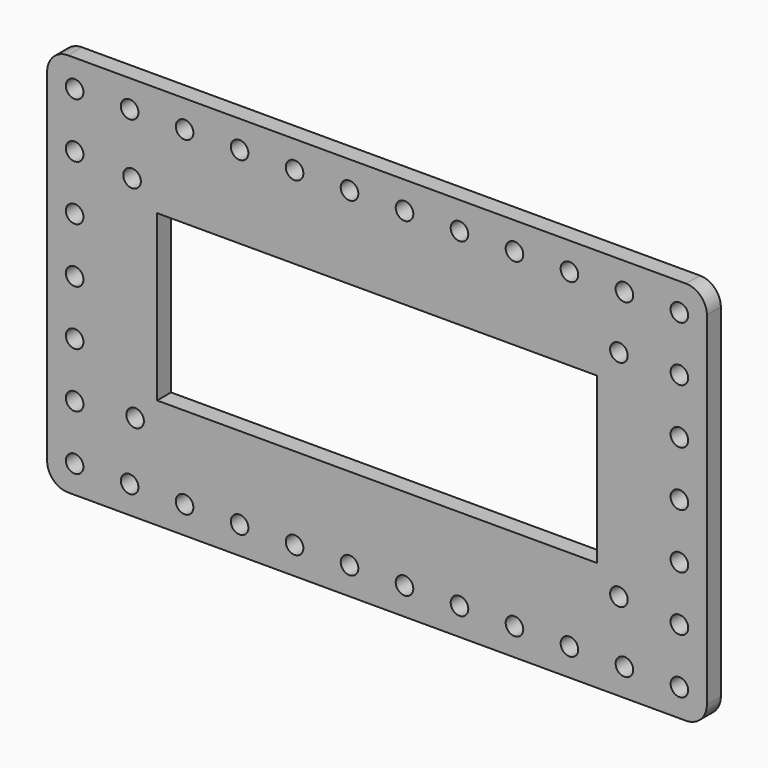
from build123d import *

# Parameters (mm, degrees)
F0_R     = 1.6
F0_W     = 80
F0_H     = 30
F1_DEPTH = 3.175


with BuildPart() as f1:
    # F0 (on Front) → F1 (new body)
    with BuildSketch(Plane.XZ):
        with BuildLine():
            Line((116.19, 0), (3.81, 0))
            ThreePointArc((3.81, 0), (1.115923, -1.115923), (0, -3.81))
            Line((0, -3.81), (0, -66.19))
            ThreePointArc((0, -66.19), (1.115923, -68.884077), (3.81, -70))
            Line((3.81, -70), (116.19, -70))
            ThreePointArc((116.19, -70), (118.884077, -68.884077), (120, -66.19))
            Line((120, -66.19), (120, -3.81))
            ThreePointArc((120, -3.81), (118.884077, -1.115923), (116.19, 0))
        make_face()
        with Locations((5, -65)):
            Circle(F0_R, mode=Mode.SUBTRACT)
        with Locations((15, -65)):
            Circle(F0_R, mode=Mode.SUBTRACT)
        with Locations((25, -65)):
            Circle(F0_R, mode=Mode.SUBTRACT)
        with Locations((5, -55)):
            Circle(F0_R, mode=Mode.SUBTRACT)
        with Locations((16, -54.1)):
            Circle(F0_R, mode=Mode.SUBTRACT)
        with Locations((35, -65)):
            Circle(F0_R, mode=Mode.SUBTRACT)
        with Locations((45, -65)):
            Circle(F0_R, mode=Mode.SUBTRACT)
        with Locations((55, -65)):
            Circle(F0_R, mode=Mode.SUBTRACT)
        with Locations((5, -45)):
            Circle(F0_R, mode=Mode.SUBTRACT)
        with Locations((65, -65)):
            Circle(F0_R, mode=Mode.SUBTRACT)
        with Locations((75, -65)):
            Circle(F0_R, mode=Mode.SUBTRACT)
        with Locations((85, -65)):
            Circle(F0_R, mode=Mode.SUBTRACT)
        with Locations((95, -65)):
            Circle(F0_R, mode=Mode.SUBTRACT)
        with Locations((105, -65)):
            Circle(F0_R, mode=Mode.SUBTRACT)
        with Locations((115, -65)):
            Circle(F0_R, mode=Mode.SUBTRACT)
        with Locations((104, -54.1)):
            Circle(F0_R, mode=Mode.SUBTRACT)
        with Locations((115, -55)):
            Circle(F0_R, mode=Mode.SUBTRACT)
        with Locations((115, -45)):
            Circle(F0_R, mode=Mode.SUBTRACT)
        with Locations((5, -35)):
            Circle(F0_R, mode=Mode.SUBTRACT)
        with Locations((5, -25)):
            Circle(F0_R, mode=Mode.SUBTRACT)
        with Locations((5, -15)):
            Circle(F0_R, mode=Mode.SUBTRACT)
        with Locations((15.44, -15.9)):
            Circle(F0_R, mode=Mode.SUBTRACT)
        with Locations((5, -5)):
            Circle(F0_R, mode=Mode.SUBTRACT)
        with Locations((15, -5)):
            Circle(F0_R, mode=Mode.SUBTRACT)
        with Locations((25, -5)):
            Circle(F0_R, mode=Mode.SUBTRACT)
        with Locations((35, -5)):
            Circle(F0_R, mode=Mode.SUBTRACT)
        with Locations((45, -5)):
            Circle(F0_R, mode=Mode.SUBTRACT)
        with Locations((55, -5)):
            Circle(F0_R, mode=Mode.SUBTRACT)
        with Locations((60, -35)):
            Rectangle(F0_W, F0_H, mode=Mode.SUBTRACT)
        with Locations((115, -35)):
            Circle(F0_R, mode=Mode.SUBTRACT)
        with Locations((115, -25)):
            Circle(F0_R, mode=Mode.SUBTRACT)
        with Locations((65, -5)):
            Circle(F0_R, mode=Mode.SUBTRACT)
        with Locations((75, -5)):
            Circle(F0_R, mode=Mode.SUBTRACT)
        with Locations((85, -5)):
            Circle(F0_R, mode=Mode.SUBTRACT)
        with Locations((104, -15)):
            Circle(F0_R, mode=Mode.SUBTRACT)
        with Locations((115, -15)):
            Circle(F0_R, mode=Mode.SUBTRACT)
        with Locations((95, -5)):
            Circle(F0_R, mode=Mode.SUBTRACT)
        with Locations((105, -5)):
            Circle(F0_R, mode=Mode.SUBTRACT)
        with Locations((115, -5)):
            Circle(F0_R, mode=Mode.SUBTRACT)
    extrude(amount=F1_DEPTH)


solid = f1.part
